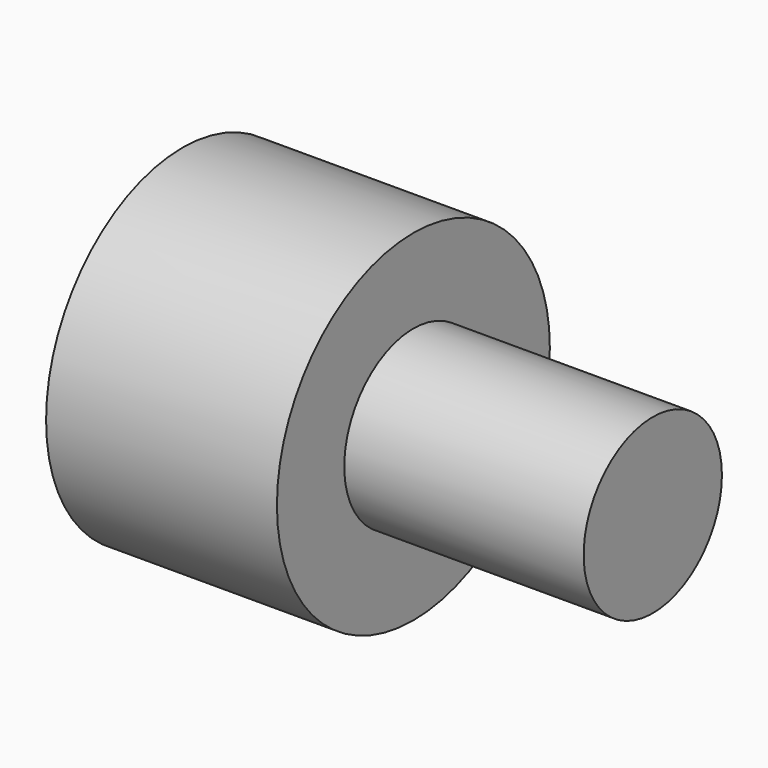
from build123d import *

# Parameters (mm, degrees)
F0_W = 52.148483
F0_H = 18.8214


with BuildPart() as f1:
    # F0 (on Top) → F1 (revolve)
    with BuildSketch(Plane.XY):
        Polygon((0, 37.15352), (0, 0), (21.979444, 0), (21.979444, 18.8214), (50.283954, 18.8214), (50.283954, 37.15352), align=None)
    revolve(axis=Axis((25.141977, 0, 0), (1, 0, 0)))


with BuildPart() as f2:
    # F0 (on Top) → F2 (revolve)
    with BuildSketch(Plane.XY):
        with Locations((76.358195, 9.4107)):
            Rectangle(F0_W, F0_H)
    revolve(axis=Axis((76.358195, 0, 0), (1, 0, 0)))


solid = Compound([f1.part, f2.part])
